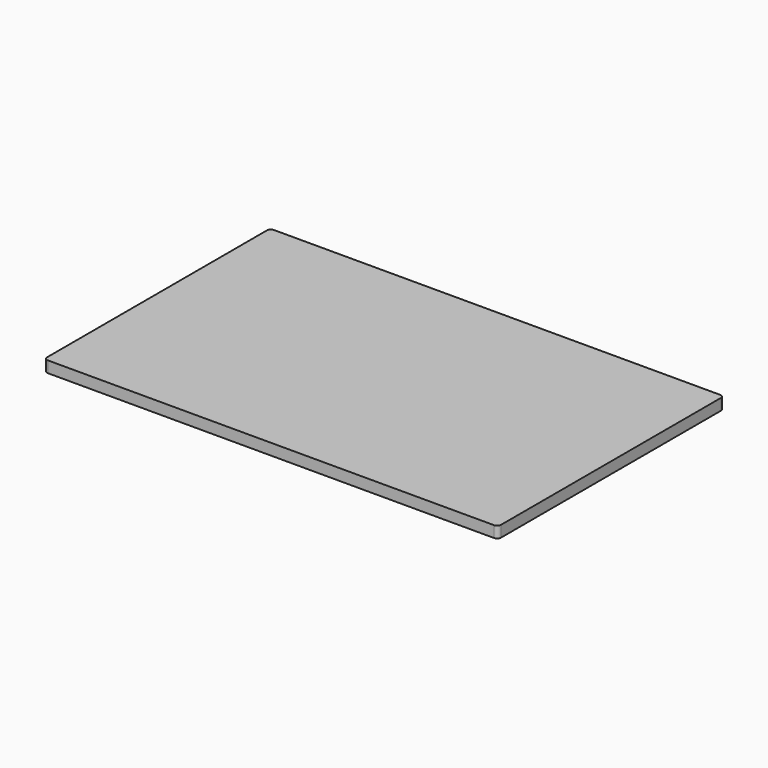
from build123d import *

# Parameters (mm, degrees)
SKETCH_W  = 241
SKETCH_H  = 150
PAD_DEPTH = 6
FILLET_R  = 2


with BuildPart() as part:
    # Sketch → Pad (new body)
    with BuildSketch(Plane.XY):
        with Locations((-120.5, 75)):
            Rectangle(SKETCH_W, SKETCH_H)
    extrude(amount=PAD_DEPTH)

    # Fillet
    fillet_edges = [part.edges().sort_by_distance(p)[0] for p in [
        (0, 0, 3),
        (-241, 0, 3),
        (0, 150, 3),
        (-241, 150, 3),
    ]]
    fillet(fillet_edges, radius=FILLET_R)


solid = part.part
